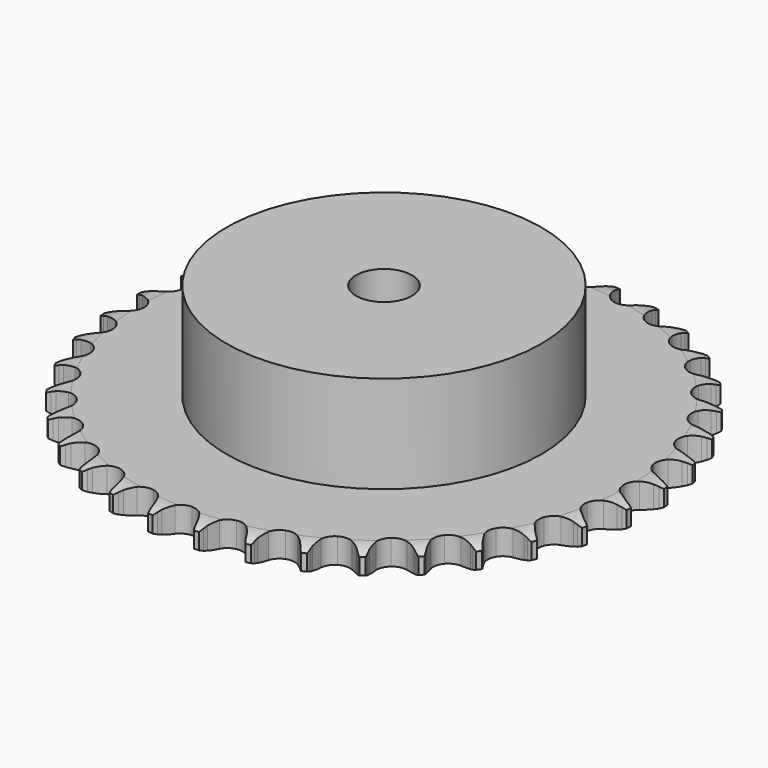
from build123d import *

# Parameters (mm, degrees)
PAD_DEPTH         = 7.2
SKETCH001_R       = 45
PAD001_DEPTH      = 35
SKETCH002_R       = 8
POCKET_DEPTH      = 0.001
POCKET_DEPTH_BACK = 35.001


with BuildPart() as part:
    # Sprocket → Pad (new body)
    with BuildSketch(Plane.XY):
        with BuildLine():
            ThreePointArc((-6.681952, 76.375066), (-5.936504, 75.349969), (-5.391044, 74.205858))
            Line((-5.391044, 74.205858), (-4.975926, 73.078951))
            ThreePointArc((-4.975926, 73.078951), (-4.31882, 71.625876), (-3.46066, 70.281713))
            ThreePointArc((-3.46066, 70.281713), (-1.936288, 69.002613), (0, 68.543704))
            ThreePointArc((0, 68.543704), (1.936288, 69.002613), (3.46066, 70.281713))
            ThreePointArc((3.46066, 70.281713), (4.31882, 71.625876), (4.975926, 73.078951))
            Line((4.975926, 73.078951), (5.391044, 74.205858))
            ThreePointArc((5.391044, 74.205858), (5.936504, 75.349969), (6.681952, 76.375066))
            ThreePointArc((6.681952, 76.375066), (7.23807, 75.236097), (7.57657, 74.01465))
            Line((7.57657, 74.01465), (7.789696, 72.832778))
            ThreePointArc((7.789696, 72.832778), (8.184495, 71.287674), (8.796206, 69.814913))
            ThreePointArc((8.796206, 69.814913), (10.075307, 68.290541), (11.902489, 67.502371))
            ThreePointArc((11.902489, 67.502371), (13.889049, 67.618075), (15.612376, 68.613039))
            Line((15.612376, 68.613039), (17.590357, 71.104657))
            ThreePointArc((17.590357, 71.104657), (17.87859, 71.631673), (18.194854, 72.14236))
            ThreePointArc((18.194854, 72.14236), (18.9307, 73.174371), (19.84283, 74.054448))
            ThreePointArc((19.84283, 74.054448), (20.192718, 72.836214), (20.313974, 71.574543))
            Line((20.313974, 71.574543), (20.318632, 70.373618))
            ThreePointArc((20.318632, 70.373618), (20.439129, 68.783431), (20.785805, 67.226823))
            ThreePointArc((20.785805, 67.226823), (21.780768, 65.503496), (23.443328, 64.410013))
            ThreePointArc((23.443328, 64.410013), (25.419799, 64.178997), (27.289718, 64.859592))
            Line((27.289718, 64.859592), (29.670314, 66.969884))
            ThreePointArc((29.670314, 66.969884), (30.045683, 67.438842), (30.445823, 67.886852))
            ThreePointArc((30.445823, 67.886852), (31.349696, 68.775406), (32.400792, 69.483724))
            ThreePointArc((32.400792, 69.483724), (32.533822, 68.22324), (32.434148, 66.95968))
            Line((32.434148, 66.95968), (32.230197, 65.776191))
            ThreePointArc((32.230197, 65.776191), (32.07273, 64.189238), (32.143837, 62.596079))
            ThreePointArc((32.143837, 62.596079), (32.824432, 60.72616), (34.271852, 59.360589))
            ThreePointArc((34.271852, 59.360589), (36.178181, 58.789872), (38.137876, 59.135419))
            Line((38.137876, 59.135419), (40.848754, 60.800265))
            ThreePointArc((40.848754, 60.800265), (41.299854, 61.196917), (41.77171, 61.568637))
            ThreePointArc((41.77171, 61.568637), (42.816148, 62.286736), (43.974274, 62.801771))
            ThreePointArc((43.974274, 62.801771), (43.886401, 61.537337), (43.568827, 60.310282))
            Line((43.568827, 60.310282), (43.162463, 59.180188))
            ThreePointArc((43.162463, 59.180188), (42.731818, 57.644689), (42.525195, 56.063385))
            ThreePointArc((42.525195, 56.063385), (42.870742, 54.10369), (44.059044, 52.507524))
            ThreePointArc((44.059044, 52.507524), (45.837307, 51.614446), (47.827234, 51.614446))
            Line((47.827234, 51.614446), (50.786025, 52.78326))
            ThreePointArc((50.786025, 52.78326), (51.299149, 53.095554), (51.828386, 53.379689))
            ThreePointArc((51.828386, 53.379689), (52.981653, 53.905514), (54.211619, 54.211619))
            ThreePointArc((54.211619, 54.211619), (53.905514, 52.981653), (53.379689, 51.828386))
            Line((53.379689, 51.828386), (52.78326, 50.786025))
            ThreePointArc((52.78326, 50.786025), (52.09252, 49.348634), (51.614446, 47.827234))
            ThreePointArc((51.614446, 47.827234), (51.614446, 45.837307), (52.507524, 44.059044))
            ThreePointArc((52.507524, 44.059044), (54.10369, 42.870742), (56.063385, 42.525195))
            Line((56.063385, 42.525195), (59.180188, 43.162463))
            ThreePointArc((59.180188, 43.162463), (59.739746, 43.380909), (60.310282, 43.568827))
            ThreePointArc((60.310282, 43.568827), (61.537337, 43.886401), (62.801771, 43.974274))
            ThreePointArc((62.801771, 43.974274), (62.286736, 42.816148), (61.568637, 41.77171))
            Line((61.568637, 41.77171), (60.800265, 40.848754))
            ThreePointArc((60.800265, 40.848754), (59.870418, 39.553146), (59.135419, 38.137876))
            ThreePointArc((59.135419, 38.137876), (58.789872, 36.178181), (59.360589, 34.271852))
            ThreePointArc((59.360589, 34.271852), (60.72616, 32.824432), (62.596079, 32.143837))
            Line((62.596079, 32.143837), (65.776191, 32.230197))
            ThreePointArc((65.776191, 32.230197), (66.365181, 32.348157), (66.95968, 32.434148))
            ThreePointArc((66.95968, 32.434148), (68.22324, 32.533822), (69.483724, 32.400792))
            ThreePointArc((69.483724, 32.400792), (68.775406, 31.349696), (67.886852, 30.445823))
            Line((67.886852, 30.445823), (66.969884, 29.670314))
            ThreePointArc((66.969884, 29.670314), (65.829184, 28.555856), (64.859592, 27.289718))
            ThreePointArc((64.859592, 27.289718), (64.178997, 25.419799), (64.410013, 23.443328))
            ThreePointArc((64.410013, 23.443328), (65.503496, 21.780768), (67.226823, 20.785805))
            Line((67.226823, 20.785805), (70.373618, 20.318632))
            ThreePointArc((70.373618, 20.318632), (70.974143, 20.332524), (71.574543, 20.313974))
            ThreePointArc((71.574543, 20.313974), (72.836214, 20.192718), (74.054448, 19.84283))
            ThreePointArc((74.054448, 19.84283), (73.174371, 18.9307), (72.14236, 18.194854))
            Line((72.14236, 18.194854), (71.104657, 17.590357))
            ThreePointArc((71.104657, 17.590357), (69.787763, 16.69091), (68.613039, 15.612376))
            ThreePointArc((68.613039, 15.612376), (67.618075, 13.889049), (67.502371, 11.902489))
            ThreePointArc((67.502371, 11.902489), (68.290541, 10.075307), (69.814913, 8.796206))
            Line((69.814913, 8.796206), (72.832778, 7.789696))
            ThreePointArc((72.832778, 7.789696), (73.426592, 7.699096), (74.01465, 7.57657))
            ThreePointArc((74.01465, 7.57657), (75.236097, 7.23807), (76.375066, 6.681952))
            ThreePointArc((76.375066, 6.681952), (75.349969, 5.936504), (74.205858, 5.391044))
            Line((74.205858, 5.391044), (73.078951, 4.975926))
            ThreePointArc((73.078951, 4.975926), (71.625876, 4.31882), (70.281713, 3.46066))
            ThreePointArc((70.281713, 3.46066), (69.002613, 1.936288), (68.543704, 0))
            ThreePointArc((68.543704, 0), (69.002613, -1.936288), (70.281713, -3.46066))
            Line((70.281713, -3.46066), (73.078951, -4.975926))
            ThreePointArc((73.078951, -4.975926), (73.648011, -5.168264), (74.205858, -5.391044))
            ThreePointArc((74.205858, -5.391044), (75.349969, -5.936504), (76.375066, -6.681952))
            ThreePointArc((76.375066, -6.681952), (75.236097, -7.23807), (74.01465, -7.57657))
            Line((74.01465, -7.57657), (72.832778, -7.789696))
            ThreePointArc((72.832778, -7.789696), (71.287674, -8.184495), (69.814913, -8.796206))
            ThreePointArc((69.814913, -8.796206), (68.290541, -10.075307), (67.502371, -11.902489))
            ThreePointArc((67.502371, -11.902489), (67.618075, -13.889049), (68.613039, -15.612376))
            Line((68.613039, -15.612376), (71.104657, -17.590357))
            ThreePointArc((71.104657, -17.590357), (71.631673, -17.87859), (72.14236, -18.194854))
            ThreePointArc((72.14236, -18.194854), (73.174371, -18.9307), (74.054448, -19.84283))
            ThreePointArc((74.054448, -19.84283), (72.836214, -20.192718), (71.574543, -20.313974))
            Line((71.574543, -20.313974), (70.373618, -20.318632))
            ThreePointArc((70.373618, -20.318632), (68.783431, -20.439129), (67.226823, -20.785805))
            ThreePointArc((67.226823, -20.785805), (65.503496, -21.780768), (64.410013, -23.443328))
            ThreePointArc((64.410013, -23.443328), (64.178997, -25.419799), (64.859592, -27.289718))
            Line((64.859592, -27.289718), (66.969884, -29.670314))
            ThreePointArc((66.969884, -29.670314), (67.438842, -30.045683), (67.886852, -30.445823))
            ThreePointArc((67.886852, -30.445823), (68.775406, -31.349696), (69.483724, -32.400792))
            ThreePointArc((69.483724, -32.400792), (68.22324, -32.533822), (66.95968, -32.434148))
            Line((66.95968, -32.434148), (65.776191, -32.230197))
            ThreePointArc((65.776191, -32.230197), (64.189238, -32.07273), (62.596079, -32.143837))
            ThreePointArc((62.596079, -32.143837), (60.72616, -32.824432), (59.360589, -34.271852))
            ThreePointArc((59.360589, -34.271852), (58.789872, -36.178181), (59.135419, -38.137876))
            Line((59.135419, -38.137876), (60.800265, -40.848754))
            ThreePointArc((60.800265, -40.848754), (61.196917, -41.299854), (61.568637, -41.77171))
            ThreePointArc((61.568637, -41.77171), (62.286736, -42.816148), (62.801771, -43.974274))
            ThreePointArc((62.801771, -43.974274), (61.537337, -43.886401), (60.310282, -43.568827))
            Line((60.310282, -43.568827), (59.180188, -43.162463))
            ThreePointArc((59.180188, -43.162463), (57.644689, -42.731818), (56.063385, -42.525195))
            ThreePointArc((56.063385, -42.525195), (54.10369, -42.870742), (52.507524, -44.059044))
            ThreePointArc((52.507524, -44.059044), (51.614446, -45.837307), (51.614446, -47.827234))
            Line((51.614446, -47.827234), (52.78326, -50.786025))
            ThreePointArc((52.78326, -50.786025), (53.095554, -51.299149), (53.379689, -51.828386))
            ThreePointArc((53.379689, -51.828386), (53.905514, -52.981653), (54.211619, -54.211619))
            ThreePointArc((54.211619, -54.211619), (52.981653, -53.905514), (51.828386, -53.379689))
            Line((51.828386, -53.379689), (50.786025, -52.78326))
            ThreePointArc((50.786025, -52.78326), (49.348634, -52.09252), (47.827234, -51.614446))
            ThreePointArc((47.827234, -51.614446), (45.837307, -51.614446), (44.059044, -52.507524))
            ThreePointArc((44.059044, -52.507524), (42.870742, -54.10369), (42.525195, -56.063385))
            Line((42.525195, -56.063385), (43.162463, -59.180188))
            ThreePointArc((43.162463, -59.180188), (43.380909, -59.739746), (43.568827, -60.310282))
            ThreePointArc((43.568827, -60.310282), (43.886401, -61.537337), (43.974274, -62.801771))
            ThreePointArc((43.974274, -62.801771), (42.816148, -62.286736), (41.77171, -61.568637))
            Line((41.77171, -61.568637), (40.848754, -60.800265))
            ThreePointArc((40.848754, -60.800265), (39.553146, -59.870418), (38.137876, -59.135419))
            ThreePointArc((38.137876, -59.135419), (36.178181, -58.789872), (34.271852, -59.360589))
            ThreePointArc((34.271852, -59.360589), (32.824432, -60.72616), (32.143837, -62.596079))
            Line((32.143837, -62.596079), (32.230197, -65.776191))
            ThreePointArc((32.230197, -65.776191), (32.348157, -66.365181), (32.434148, -66.95968))
            ThreePointArc((32.434148, -66.95968), (32.533822, -68.22324), (32.400792, -69.483724))
            ThreePointArc((32.400792, -69.483724), (31.349696, -68.775406), (30.445823, -67.886852))
            Line((30.445823, -67.886852), (29.670314, -66.969884))
            ThreePointArc((29.670314, -66.969884), (28.555856, -65.829184), (27.289718, -64.859592))
            ThreePointArc((27.289718, -64.859592), (25.419799, -64.178997), (23.443328, -64.410013))
            ThreePointArc((23.443328, -64.410013), (21.780768, -65.503496), (20.785805, -67.226823))
            Line((20.785805, -67.226823), (20.318632, -70.373618))
            ThreePointArc((20.318632, -70.373618), (20.332524, -70.974143), (20.313974, -71.574543))
            ThreePointArc((20.313974, -71.574543), (20.192718, -72.836214), (19.84283, -74.054448))
            ThreePointArc((19.84283, -74.054448), (18.9307, -73.174371), (18.194854, -72.14236))
            Line((18.194854, -72.14236), (17.590357, -71.104657))
            ThreePointArc((17.590357, -71.104657), (16.69091, -69.787763), (15.612376, -68.613039))
            ThreePointArc((15.612376, -68.613039), (13.889049, -67.618075), (11.902489, -67.502371))
            ThreePointArc((11.902489, -67.502371), (10.075307, -68.290541), (8.796206, -69.814913))
            Line((8.796206, -69.814913), (7.789696, -72.832778))
            ThreePointArc((7.789696, -72.832778), (7.699096, -73.426592), (7.57657, -74.01465))
            ThreePointArc((7.57657, -74.01465), (7.23807, -75.236097), (6.681952, -76.375066))
            ThreePointArc((6.681952, -76.375066), (5.936504, -75.349969), (5.391044, -74.205858))
            Line((5.391044, -74.205858), (4.975926, -73.078951))
            ThreePointArc((4.975926, -73.078951), (4.31882, -71.625876), (3.46066, -70.281713))
            ThreePointArc((3.46066, -70.281713), (1.936288, -69.002613), (0, -68.543704))
            ThreePointArc((0, -68.543704), (-1.936288, -69.002613), (-3.46066, -70.281713))
            Line((-3.46066, -70.281713), (-4.975926, -73.078951))
            ThreePointArc((-4.975926, -73.078951), (-5.168264, -73.648011), (-5.391044, -74.205858))
            ThreePointArc((-5.391044, -74.205858), (-5.936504, -75.349969), (-6.681952, -76.375066))
            ThreePointArc((-6.681952, -76.375066), (-7.23807, -75.236097), (-7.57657, -74.01465))
            Line((-7.57657, -74.01465), (-7.789696, -72.832778))
            ThreePointArc((-7.789696, -72.832778), (-8.184495, -71.287674), (-8.796206, -69.814913))
            ThreePointArc((-8.796206, -69.814913), (-10.075307, -68.290541), (-11.902489, -67.502371))
            ThreePointArc((-11.902489, -67.502371), (-13.889049, -67.618075), (-15.612376, -68.613039))
            Line((-15.612376, -68.613039), (-17.590357, -71.104657))
            ThreePointArc((-17.590357, -71.104657), (-17.87859, -71.631673), (-18.194854, -72.14236))
            ThreePointArc((-18.194854, -72.14236), (-18.9307, -73.174371), (-19.84283, -74.054448))
            ThreePointArc((-19.84283, -74.054448), (-20.192718, -72.836214), (-20.313974, -71.574543))
            Line((-20.313974, -71.574543), (-20.318632, -70.373618))
            ThreePointArc((-20.318632, -70.373618), (-20.439129, -68.783431), (-20.785805, -67.226823))
            ThreePointArc((-20.785805, -67.226823), (-21.780768, -65.503496), (-23.443328, -64.410013))
            ThreePointArc((-23.443328, -64.410013), (-25.419799, -64.178997), (-27.289718, -64.859592))
            Line((-27.289718, -64.859592), (-29.670314, -66.969884))
            ThreePointArc((-29.670314, -66.969884), (-30.045683, -67.438842), (-30.445823, -67.886852))
            ThreePointArc((-30.445823, -67.886852), (-31.349696, -68.775406), (-32.400792, -69.483724))
            ThreePointArc((-32.400792, -69.483724), (-32.533822, -68.22324), (-32.434148, -66.95968))
            Line((-32.434148, -66.95968), (-32.230197, -65.776191))
            ThreePointArc((-32.230197, -65.776191), (-32.07273, -64.189238), (-32.143837, -62.596079))
            ThreePointArc((-32.143837, -62.596079), (-32.824432, -60.72616), (-34.271852, -59.360589))
            ThreePointArc((-34.271852, -59.360589), (-36.178181, -58.789872), (-38.137876, -59.135419))
            Line((-38.137876, -59.135419), (-40.848754, -60.800265))
            ThreePointArc((-40.848754, -60.800265), (-41.299854, -61.196917), (-41.77171, -61.568637))
            ThreePointArc((-41.77171, -61.568637), (-42.816148, -62.286736), (-43.974274, -62.801771))
            ThreePointArc((-43.974274, -62.801771), (-43.886401, -61.537337), (-43.568827, -60.310282))
            Line((-43.568827, -60.310282), (-43.162463, -59.180188))
            ThreePointArc((-43.162463, -59.180188), (-42.731818, -57.644689), (-42.525195, -56.063385))
            ThreePointArc((-42.525195, -56.063385), (-42.870742, -54.10369), (-44.059044, -52.507524))
            ThreePointArc((-44.059044, -52.507524), (-45.837307, -51.614446), (-47.827234, -51.614446))
            Line((-47.827234, -51.614446), (-50.786025, -52.78326))
            ThreePointArc((-50.786025, -52.78326), (-51.299149, -53.095554), (-51.828386, -53.379689))
            ThreePointArc((-51.828386, -53.379689), (-52.981653, -53.905514), (-54.211619, -54.211619))
            ThreePointArc((-54.211619, -54.211619), (-53.905514, -52.981653), (-53.379689, -51.828386))
            Line((-53.379689, -51.828386), (-52.78326, -50.786025))
            ThreePointArc((-52.78326, -50.786025), (-52.09252, -49.348634), (-51.614446, -47.827234))
            ThreePointArc((-51.614446, -47.827234), (-51.614446, -45.837307), (-52.507524, -44.059044))
            ThreePointArc((-52.507524, -44.059044), (-54.10369, -42.870742), (-56.063385, -42.525195))
            Line((-56.063385, -42.525195), (-59.180188, -43.162463))
            ThreePointArc((-59.180188, -43.162463), (-59.739746, -43.380909), (-60.310282, -43.568827))
            ThreePointArc((-60.310282, -43.568827), (-61.537337, -43.886401), (-62.801771, -43.974274))
            ThreePointArc((-62.801771, -43.974274), (-62.286736, -42.816148), (-61.568637, -41.77171))
            Line((-61.568637, -41.77171), (-60.800265, -40.848754))
            ThreePointArc((-60.800265, -40.848754), (-59.870418, -39.553146), (-59.135419, -38.137876))
            ThreePointArc((-59.135419, -38.137876), (-58.789872, -36.178181), (-59.360589, -34.271852))
            ThreePointArc((-59.360589, -34.271852), (-60.72616, -32.824432), (-62.596079, -32.143837))
            Line((-62.596079, -32.143837), (-65.776191, -32.230197))
            ThreePointArc((-65.776191, -32.230197), (-66.365181, -32.348157), (-66.95968, -32.434148))
            ThreePointArc((-66.95968, -32.434148), (-68.22324, -32.533822), (-69.483724, -32.400792))
            ThreePointArc((-69.483724, -32.400792), (-68.775406, -31.349696), (-67.886852, -30.445823))
            Line((-67.886852, -30.445823), (-66.969884, -29.670314))
            ThreePointArc((-66.969884, -29.670314), (-65.829184, -28.555856), (-64.859592, -27.289718))
            ThreePointArc((-64.859592, -27.289718), (-64.178997, -25.419799), (-64.410013, -23.443328))
            ThreePointArc((-64.410013, -23.443328), (-65.503496, -21.780768), (-67.226823, -20.785805))
            Line((-67.226823, -20.785805), (-70.373618, -20.318632))
            ThreePointArc((-70.373618, -20.318632), (-70.974143, -20.332524), (-71.574543, -20.313974))
            ThreePointArc((-71.574543, -20.313974), (-72.836214, -20.192718), (-74.054448, -19.84283))
            ThreePointArc((-74.054448, -19.84283), (-73.174371, -18.9307), (-72.14236, -18.194854))
            Line((-72.14236, -18.194854), (-71.104657, -17.590357))
            ThreePointArc((-71.104657, -17.590357), (-69.787763, -16.69091), (-68.613039, -15.612376))
            ThreePointArc((-68.613039, -15.612376), (-67.618075, -13.889049), (-67.502371, -11.902489))
            ThreePointArc((-67.502371, -11.902489), (-68.290541, -10.075307), (-69.814913, -8.796206))
            Line((-69.814913, -8.796206), (-72.832778, -7.789696))
            ThreePointArc((-72.832778, -7.789696), (-73.426592, -7.699096), (-74.01465, -7.57657))
            ThreePointArc((-74.01465, -7.57657), (-75.236097, -7.23807), (-76.375066, -6.681952))
            ThreePointArc((-76.375066, -6.681952), (-75.349969, -5.936504), (-74.205858, -5.391044))
            Line((-74.205858, -5.391044), (-73.078951, -4.975926))
            ThreePointArc((-73.078951, -4.975926), (-71.625876, -4.31882), (-70.281713, -3.46066))
            ThreePointArc((-70.281713, -3.46066), (-69.002613, -1.936288), (-68.543704, 0))
            ThreePointArc((-68.543704, 0), (-69.002613, 1.936288), (-70.281713, 3.46066))
            Line((-70.281713, 3.46066), (-73.078951, 4.975926))
            ThreePointArc((-73.078951, 4.975926), (-73.648011, 5.168264), (-74.205858, 5.391044))
            ThreePointArc((-74.205858, 5.391044), (-75.349969, 5.936504), (-76.375066, 6.681952))
            ThreePointArc((-76.375066, 6.681952), (-75.236097, 7.23807), (-74.01465, 7.57657))
            Line((-74.01465, 7.57657), (-72.832778, 7.789696))
            ThreePointArc((-72.832778, 7.789696), (-71.287674, 8.184495), (-69.814913, 8.796206))
            ThreePointArc((-69.814913, 8.796206), (-68.290541, 10.075307), (-67.502371, 11.902489))
            ThreePointArc((-67.502371, 11.902489), (-67.618075, 13.889049), (-68.613039, 15.612376))
            Line((-68.613039, 15.612376), (-71.104657, 17.590357))
            ThreePointArc((-71.104657, 17.590357), (-71.631673, 17.87859), (-72.14236, 18.194854))
            ThreePointArc((-72.14236, 18.194854), (-73.174371, 18.9307), (-74.054448, 19.84283))
            ThreePointArc((-74.054448, 19.84283), (-72.836214, 20.192718), (-71.574543, 20.313974))
            Line((-71.574543, 20.313974), (-70.373618, 20.318632))
            ThreePointArc((-70.373618, 20.318632), (-68.783431, 20.439129), (-67.226823, 20.785805))
            ThreePointArc((-67.226823, 20.785805), (-65.503496, 21.780768), (-64.410013, 23.443328))
            ThreePointArc((-64.410013, 23.443328), (-64.178997, 25.419799), (-64.859592, 27.289718))
            Line((-64.859592, 27.289718), (-66.969884, 29.670314))
            ThreePointArc((-66.969884, 29.670314), (-67.438842, 30.045683), (-67.886852, 30.445823))
            ThreePointArc((-67.886852, 30.445823), (-68.775406, 31.349696), (-69.483724, 32.400792))
            ThreePointArc((-69.483724, 32.400792), (-68.22324, 32.533822), (-66.95968, 32.434148))
            Line((-66.95968, 32.434148), (-65.776191, 32.230197))
            ThreePointArc((-65.776191, 32.230197), (-64.189238, 32.07273), (-62.596079, 32.143837))
            ThreePointArc((-62.596079, 32.143837), (-60.72616, 32.824432), (-59.360589, 34.271852))
            ThreePointArc((-59.360589, 34.271852), (-58.789872, 36.178181), (-59.135419, 38.137876))
            Line((-59.135419, 38.137876), (-60.800265, 40.848754))
            ThreePointArc((-60.800265, 40.848754), (-61.196917, 41.299854), (-61.568637, 41.77171))
            ThreePointArc((-61.568637, 41.77171), (-62.286736, 42.816148), (-62.801771, 43.974274))
            ThreePointArc((-62.801771, 43.974274), (-61.537337, 43.886401), (-60.310282, 43.568827))
            Line((-60.310282, 43.568827), (-59.180188, 43.162463))
            ThreePointArc((-59.180188, 43.162463), (-57.644689, 42.731818), (-56.063385, 42.525195))
            ThreePointArc((-56.063385, 42.525195), (-54.10369, 42.870742), (-52.507524, 44.059044))
            ThreePointArc((-52.507524, 44.059044), (-51.614446, 45.837307), (-51.614446, 47.827234))
            Line((-51.614446, 47.827234), (-52.78326, 50.786025))
            ThreePointArc((-52.78326, 50.786025), (-53.095554, 51.299149), (-53.379689, 51.828386))
            ThreePointArc((-53.379689, 51.828386), (-53.905514, 52.981653), (-54.211619, 54.211619))
            ThreePointArc((-54.211619, 54.211619), (-52.981653, 53.905514), (-51.828386, 53.379689))
            Line((-51.828386, 53.379689), (-50.786025, 52.78326))
            ThreePointArc((-50.786025, 52.78326), (-49.348634, 52.09252), (-47.827234, 51.614446))
            ThreePointArc((-47.827234, 51.614446), (-45.837307, 51.614446), (-44.059044, 52.507524))
            ThreePointArc((-44.059044, 52.507524), (-42.870742, 54.10369), (-42.525195, 56.063385))
            Line((-42.525195, 56.063385), (-43.162463, 59.180188))
            ThreePointArc((-43.162463, 59.180188), (-43.380909, 59.739746), (-43.568827, 60.310282))
            ThreePointArc((-43.568827, 60.310282), (-43.886401, 61.537337), (-43.974274, 62.801771))
            ThreePointArc((-43.974274, 62.801771), (-42.816148, 62.286736), (-41.77171, 61.568637))
            Line((-41.77171, 61.568637), (-40.848754, 60.800265))
            ThreePointArc((-40.848754, 60.800265), (-39.553146, 59.870418), (-38.137876, 59.135419))
            ThreePointArc((-38.137876, 59.135419), (-36.178181, 58.789872), (-34.271852, 59.360589))
            ThreePointArc((-34.271852, 59.360589), (-32.824432, 60.72616), (-32.143837, 62.596079))
            Line((-32.143837, 62.596079), (-32.230197, 65.776191))
            ThreePointArc((-32.230197, 65.776191), (-32.348157, 66.365181), (-32.434148, 66.95968))
            ThreePointArc((-32.434148, 66.95968), (-32.533822, 68.22324), (-32.400792, 69.483724))
            ThreePointArc((-32.400792, 69.483724), (-31.349696, 68.775406), (-30.445823, 67.886852))
            Line((-30.445823, 67.886852), (-29.670314, 66.969884))
            ThreePointArc((-29.670314, 66.969884), (-28.555856, 65.829184), (-27.289718, 64.859592))
            ThreePointArc((-27.289718, 64.859592), (-25.419799, 64.178997), (-23.443328, 64.410013))
            ThreePointArc((-23.443328, 64.410013), (-21.780768, 65.503496), (-20.785805, 67.226823))
            Line((-20.785805, 67.226823), (-20.318632, 70.373618))
            ThreePointArc((-20.318632, 70.373618), (-20.332524, 70.974143), (-20.313974, 71.574543))
            ThreePointArc((-20.313974, 71.574543), (-20.192718, 72.836214), (-19.84283, 74.054448))
            ThreePointArc((-19.84283, 74.054448), (-18.9307, 73.174371), (-18.194854, 72.14236))
            Line((-18.194854, 72.14236), (-17.590357, 71.104657))
            ThreePointArc((-17.590357, 71.104657), (-16.69091, 69.787763), (-15.612376, 68.613039))
            ThreePointArc((-15.612376, 68.613039), (-13.889049, 67.618075), (-11.902489, 67.502371))
            ThreePointArc((-11.902489, 67.502371), (-10.075307, 68.290541), (-8.796206, 69.814913))
            Line((-8.796206, 69.814913), (-7.789696, 72.832778))
            ThreePointArc((-7.789696, 72.832778), (-7.699096, 73.426592), (-7.57657, 74.01465))
            ThreePointArc((-7.57657, 74.01465), (-7.23807, 75.236097), (-6.681952, 76.375066))
        make_face()
    extrude(amount=PAD_DEPTH)

    # Sketch → Groove (revolve, cut)
    with BuildSketch(Plane.XZ):
        with BuildLine():
            Line((69.833431, 0), (75.5, 0))
            Line((81.166569, 0), (75.5, 0))
            Line((81.166569, 7.2), (81.166569, 0))
            Line((75.5, 7.2), (81.166569, 7.2))
            Line((69.833431, 7.2), (75.5, 7.2))
            ThreePointArc((75.5, 5.9), (72.74032, 6.870833), (69.833431, 7.2))
            Line((75.5, 1.3), (75.5, 5.9))
            ThreePointArc((69.833431, 0), (72.74032, 0.329167), (75.5, 1.3))
        make_face()
    revolve(axis=Axis((0, 0, 0), (0, 0, 1)), mode=Mode.SUBTRACT)

    # Sketch001 → Pad001 (join)
    with BuildSketch(Plane.XY):
        Circle(SKETCH001_R)
    extrude(amount=PAD001_DEPTH)

    # Sketch002 → Pocket (cut, two sides)
    with BuildSketch(Plane.XY) as pocket_sk:
        Circle(SKETCH002_R)
    extrude(amount=-POCKET_DEPTH, mode=Mode.SUBTRACT)
    extrude(pocket_sk.sketch, amount=POCKET_DEPTH_BACK, mode=Mode.SUBTRACT)


solid = part.part
